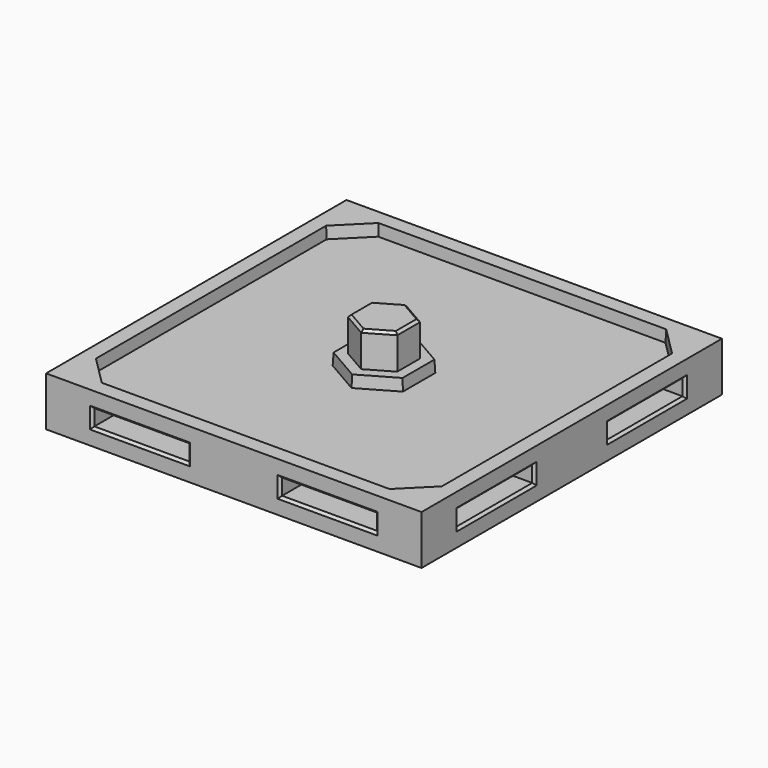
from build123d import *

# Parameters (mm, degrees)
F0_W      = 76.2
F0_H      = 76.2
F1_DEPTH  = 10
F3_DEPTH  = 7
F5_DEPTH  = 7.25
F6_W      = 19.3
F6_H      = 3.25
F8_DEPTH  = 6.6
F9_COUNT  = 4
F9_ANGLE  = 270
F11_SIZE  = 0.5
F19_DEPTH = 2.375
F19_TAPER = 3


with BuildPart() as f1:
    # F0 (on Top) → F1 (new body)
    with BuildSketch(Plane.XY):
        Rectangle(F0_W, F0_H)
    extrude(amount=F1_DEPTH)

    # F2 (on face) → F3 (join)
    with BuildSketch(Plane.XY.offset(10)):
        Polygon((5, -2.8867513459), (5, 2.8867513459), (0, 5.7735026919), (-5, 2.8867513459), (-5, -2.8867513459), (0, -5.7735026919), align=None)
    extrude(amount=F3_DEPTH)

    # F4 (on face) → F5 (cut)
    with BuildSketch(Plane(origin=(0, 0, 0), x_dir=(1, 0, 0), z_dir=(0, 0, -1))):
        Polygon((5.25, -3.0310889132), (5.25, 3.0310889132), (0, 6.0621778265), (-5.25, 3.0310889132), (-5.25, -3.0310889132), (0, -6.0621778265), align=None)
    extrude(amount=-F5_DEPTH, mode=Mode.SUBTRACT)


with BuildPart() as f8:
    # F6 (on face) → F8 (new body)
    with BuildSketch(Plane.XZ.offset(38.1)):
        with Locations((-19.05, 5)):
            Rectangle(F6_W, F6_H)
    extrude(amount=-F8_DEPTH)


with BuildPart() as f8b:
    # F6 (on face) → F8, piece 2 (new body)
    with BuildSketch(Plane.XZ.offset(38.1)):
        with Locations((19.05, 5)):
            Rectangle(F6_W, F6_H)
    extrude(amount=-F8_DEPTH)


with BuildPart() as f9_1:
    # F9: instance of F8b
    add(f8b.part.rotate(Axis((0, 0, 20.068032667), (0, 0, -1)), 1 * F9_ANGLE / (F9_COUNT - 1)))


with BuildPart() as f9_2:
    # F9: instance of F8b
    add(f8b.part.rotate(Axis((0, 0, 20.068032667), (0, 0, -1)), 2 * F9_ANGLE / (F9_COUNT - 1)))


with BuildPart() as f9_3:
    # F9: instance of F8b
    add(f8b.part.rotate(Axis((0, 0, 20.068032667), (0, 0, -1)), 3 * F9_ANGLE / (F9_COUNT - 1)))


with BuildPart() as f9_4:
    # F9: instance of F8
    add(f8.part.rotate(Axis((0, 0, 20.068032667), (0, 0, -1)), 1 * F9_ANGLE / (F9_COUNT - 1)))


with BuildPart() as f9_5:
    # F9: instance of F8
    add(f8.part.rotate(Axis((0, 0, 20.068032667), (0, 0, -1)), 2 * F9_ANGLE / (F9_COUNT - 1)))


with BuildPart() as f9_6:
    # F9: instance of F8
    add(f8.part.rotate(Axis((0, 0, 20.068032667), (0, 0, -1)), 3 * F9_ANGLE / (F9_COUNT - 1)))


with BuildPart() as f1_1:
    add(f1.part)

    # F10: cut F9_3, F9_6, F9_2, F9_5, F9_1, F9_4, F8b, F8
    add(f9_3.part, mode=Mode.SUBTRACT)
    add(f9_6.part, mode=Mode.SUBTRACT)
    add(f9_2.part, mode=Mode.SUBTRACT)
    add(f9_5.part, mode=Mode.SUBTRACT)
    add(f9_1.part, mode=Mode.SUBTRACT)
    add(f9_4.part, mode=Mode.SUBTRACT)
    add(f8b.part, mode=Mode.SUBTRACT)
    add(f8.part, mode=Mode.SUBTRACT)

    # F11
    f11_edges = [f1_1.edges().sort_by_distance(p)[0] for p in [
        (5, 0, 17),
        (2.5, 4.330127, 17),
        (-2.5, 4.330127, 17),
        (-5, 0, 17),
        (-2.5, -4.330127, 17),
        (2.5, -4.330127, 17),
        (2.625, 4.546633, 0),
        (5.25, 0, 0),
        (2.625, -4.546633, 0),
        (-2.625, -4.546633, 0),
        (-5.25, 0, 0),
        (-2.625, 4.546633, 0),
        (38.1, -19.05, 6.625),
        (38.1, -9.4, 5),
        (38.1, -19.05, 3.375),
        (38.1, -28.7, 5),
        (38.1, 19.05, 3.375),
        (38.1, 9.4, 5),
        (38.1, 28.7, 5),
        (38.1, 19.05, 6.625),
        (19.05, 38.1, 6.625),
        (28.7, 38.1, 5),
        (9.4, 38.1, 5),
        (19.05, 38.1, 3.375),
        (28.7, -38.1, 5),
        (19.05, -38.1, 6.625),
        (9.4, -38.1, 5),
        (19.05, -38.1, 3.375),
        (-9.4, -38.1, 5),
        (-19.05, -38.1, 6.625),
        (-19.05, -38.1, 3.375),
        (-28.7, -38.1, 5),
        (-38.1, -28.7, 5),
        (-38.1, -19.05, 6.625),
        (-38.1, -9.4, 5),
        (-38.1, -19.05, 3.375),
        (-38.1, 9.4, 5),
        (-38.1, 19.05, 6.625),
        (-38.1, 28.7, 5),
        (-38.1, 19.05, 3.375),
        (-19.05, 38.1, 6.625),
        (-28.7, 38.1, 5),
        (-9.4, 38.1, 5),
        (-19.05, 38.1, 3.375),
    ]]
    chamfer(f11_edges, length=F11_SIZE)

    # F18 (on face) → F19 (cut)
    with BuildSketch(Plane.XY.offset(10)):
        Polygon((-29.2, 35.1), (-35.1, 29.2), (-35.1, -29.2), (-29.2, -35.1), (29.2, -35.1), (35.1, -29.2), (35.1, 29.2), (29.2, 35.1), align=None)
        Polygon((0, -8.0829037687), (-7, -4.0414518843), (-7, 4.0414518843), (0, 8.0829037687), (7, 4.0414518843), (7, -4.0414518843), align=None, mode=Mode.SUBTRACT)
    extrude(amount=-F19_DEPTH, taper=F19_TAPER, mode=Mode.SUBTRACT)


solid = f1_1.part
